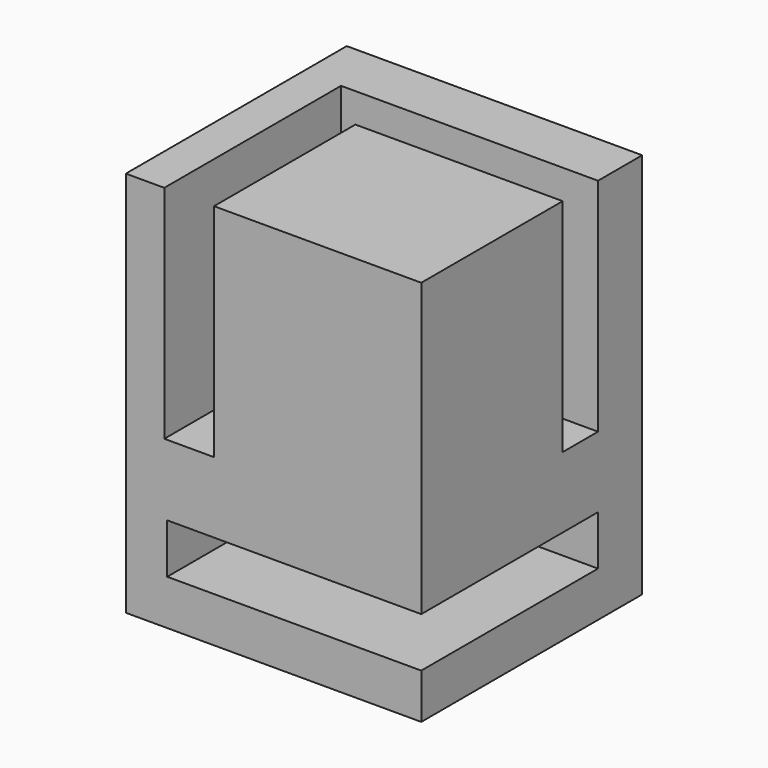
from build123d import *

# Parameters (mm, degrees)
F0_W     = 26.747306
F0_H     = 25
F1_DEPTH = 35
F2_W     = 4.5
F2_H     = 20
F3_DEPTH = 20
F4_W     = 19.263828
F4_H     = 4
F5_DEPTH = 20
F6_W     = 23
F6_H     = 4.5
F7_DEPTH = 20


with BuildPart() as f1:
    # F0 (on Top) → F1 (new body)
    with BuildSketch(Plane.XY):
        Rectangle(F0_W, F0_H)
    extrude(amount=F1_DEPTH)

    # F2 (on face) → F3 (cut)
    with BuildSketch(Plane.XY.offset(35)):
        with Locations((-7.640175, -2.5)):
            Rectangle(F2_W, F2_H)
    extrude(amount=-F3_DEPTH, mode=Mode.SUBTRACT)

    # F4 (on face) → F5 (cut)
    with BuildSketch(Plane.XY.offset(35)):
        with Locations((3.741739, 5.5)):
            Rectangle(F4_W, F4_H)
    extrude(amount=-F5_DEPTH, mode=Mode.SUBTRACT)

    # F6 (on face) → F7 (cut)
    with BuildSketch(Plane.XZ.offset(12.5)):
        with Locations((1.873653, 6.339478)):
            Rectangle(F6_W, F6_H)
    extrude(amount=-F7_DEPTH, mode=Mode.SUBTRACT)


solid = f1.part
